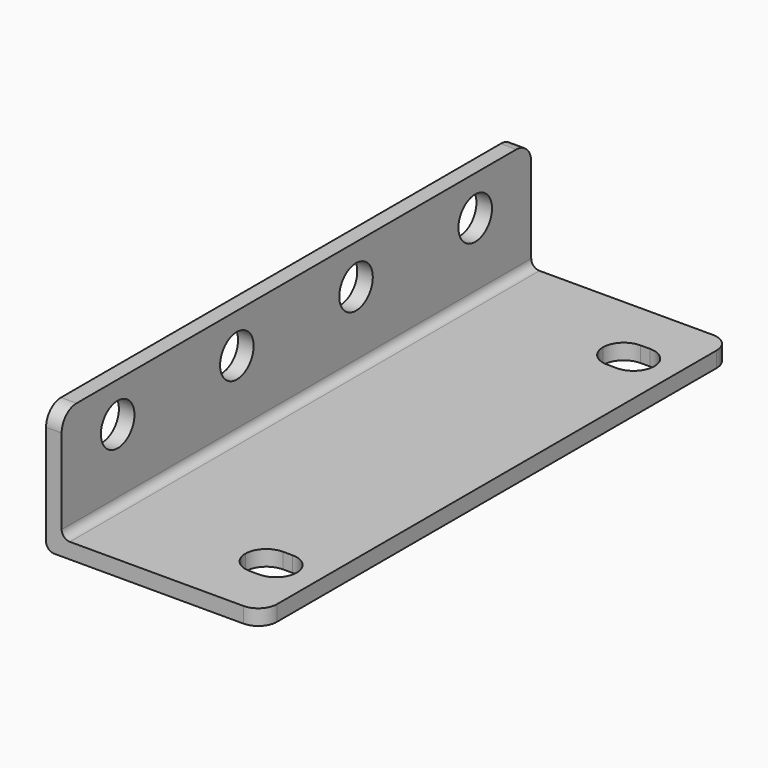
from build123d import *

# Parameters (mm, degrees)
F1_DEPTH = 200.152
F3_D     = 14.3002
F4_R     = 6.35
F6_DEPTH = 25.4


with BuildPart() as f1:
    # F0 (on Front) → F1 (new body)
    with BuildSketch(Plane.XZ):
        with BuildLine():
            ThreePointArc((0, 2.794), (0.818344, 0.818344), (2.794, 0))
            Line((2.794, 0), (73.6346, 0))
            Line((73.6346, 0), (73.6346, 5.3086))
            Line((73.6346, 5.3086), (8.1026, 5.3086))
            ThreePointArc((8.1026, 5.3086), (6.126944, 6.126944), (5.3086, 8.1026))
            Line((5.3086, 8.1026), (5.3086, 43.4086))
            Line((5.3086, 43.4086), (0, 43.4086))
            Line((0, 43.4086), (0, 2.794))
        make_face()
    extrude(amount=F1_DEPTH)

    # F3 (through all)
    with Locations(Plane(origin=(0, 0, 0), x_dir=(0, -1, 0), z_dir=(-1, 0, 0))):
        with Locations((23.876, 29.9212), (74.676, 29.9212), (125.476, 29.9212), (176.276, 29.9212)):
            Hole(F3_D / 2)

    # F4
    f4_edges = [f1.edges().sort_by_distance(p)[0] for p in [
        (2.6543, 0, 43.4086),
        (73.6346, 0, 2.6543),
        (73.6346, -200.152, 2.6543),
        (2.6543, -200.152, 43.4086),
    ]]
    fillet(f4_edges, radius=F4_R)

    # F5 (on face) → F6 (cut)
    with BuildSketch(Plane.XY.offset(5.3086)):
        with BuildLine():
            ThreePointArc((66.3956, -23.876), (64.312543, -18.847057), (59.2836, -16.764))
            Line((59.2836, -16.764), (55.9816, -16.764))
            ThreePointArc((55.9816, -16.764), (50.952657, -18.847057), (48.8696, -23.876))
            ThreePointArc((48.8696, -23.876), (50.952657, -28.904943), (55.9816, -30.988))
            Line((55.9816, -30.988), (59.2836, -30.988))
            ThreePointArc((59.2836, -30.988), (64.312543, -28.904943), (66.3956, -23.876))
        make_face()
        with BuildLine():
            ThreePointArc((66.3956, -176.276), (64.312543, -171.247057), (59.2836, -169.164))
            Line((59.2836, -169.164), (55.9816, -169.164))
            ThreePointArc((55.9816, -169.164), (50.952657, -171.247057), (48.8696, -176.276))
            ThreePointArc((48.8696, -176.276), (50.952657, -181.304943), (55.9816, -183.388))
            Line((55.9816, -183.388), (59.2836, -183.388))
            ThreePointArc((59.2836, -183.388), (64.312543, -181.304943), (66.3956, -176.276))
        make_face()
    extrude(amount=-F6_DEPTH, mode=Mode.SUBTRACT)


solid = f1.part
